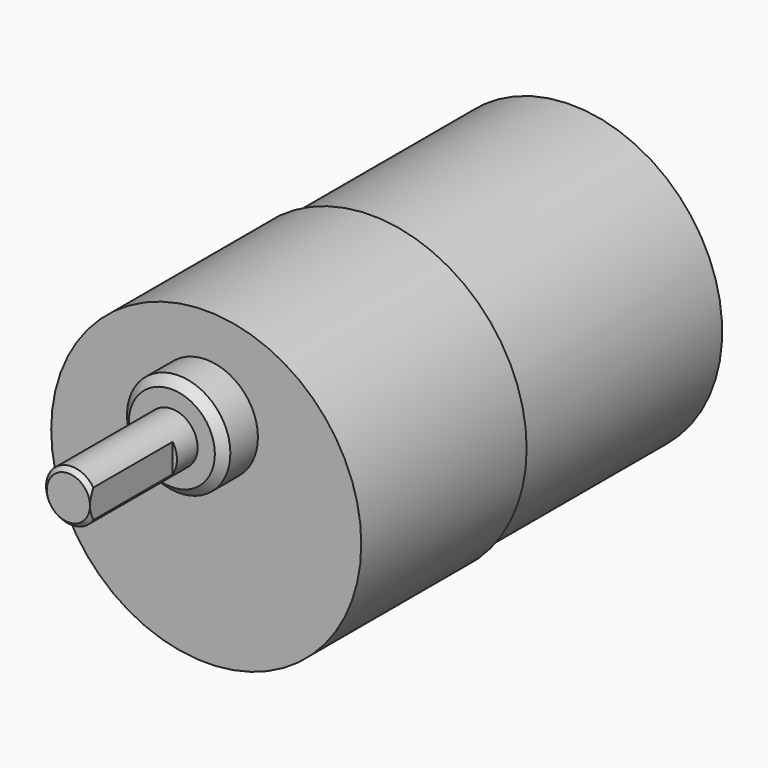
from build123d import *

# Parameters (mm, degrees)
F0_R      = 18
F1_DEPTH  = 24
F2_R      = 6
F3_DEPTH  = 5
F4_SIZE   = 1
F5_R      = 3
F6_DEPTH  = 15
F7_SIZE   = 0.5
F8_W      = 1.9986620047
F8_H      = 4.7967880898
F9_DEPTH  = 12
F10_R     = 17.5
F11_DEPTH = 29


with BuildPart() as f1:
    # F0 (on Front) → F1 (new body)
    with BuildSketch(Plane.XZ):
        Circle(F0_R)
    extrude(amount=F1_DEPTH)

    # F2 (on face) → F3 (join)
    with BuildSketch(Plane.XZ.offset(24)):
        with Locations((0, 7)):
            Circle(F2_R)
    extrude(amount=F3_DEPTH)

    # F4
    f4_edges = [f1.edges().sort_by_distance(p)[0] for p in [
        (-6, -29, 7),
    ]]
    chamfer(f4_edges, length=F4_SIZE)

    # F5 (on face) → F6 (join)
    with BuildSketch(Plane.XZ.offset(29)):
        with Locations((0, 7)):
            Circle(F5_R)
    extrude(amount=F6_DEPTH)

    # F7
    f7_edges = [f1.edges().sort_by_distance(p)[0] for p in [
        (-3, -44, 7),
    ]]
    chamfer(f7_edges, length=F7_SIZE)

    # F8 (on face) → F9 (cut)
    with BuildSketch(Plane.XZ.offset(44)):
        with Locations((3.4993309465, 6.97000045)):
            Rectangle(F8_W, F8_H)
    extrude(amount=-F9_DEPTH, mode=Mode.SUBTRACT)

    # F10 (on face) → F11 (join)
    with BuildSketch(Plane(origin=(0, 0, 0), x_dir=(-1, 0, 0), z_dir=(0, 1, 0))):
        Circle(F10_R)
    extrude(amount=F11_DEPTH)


solid = f1.part
